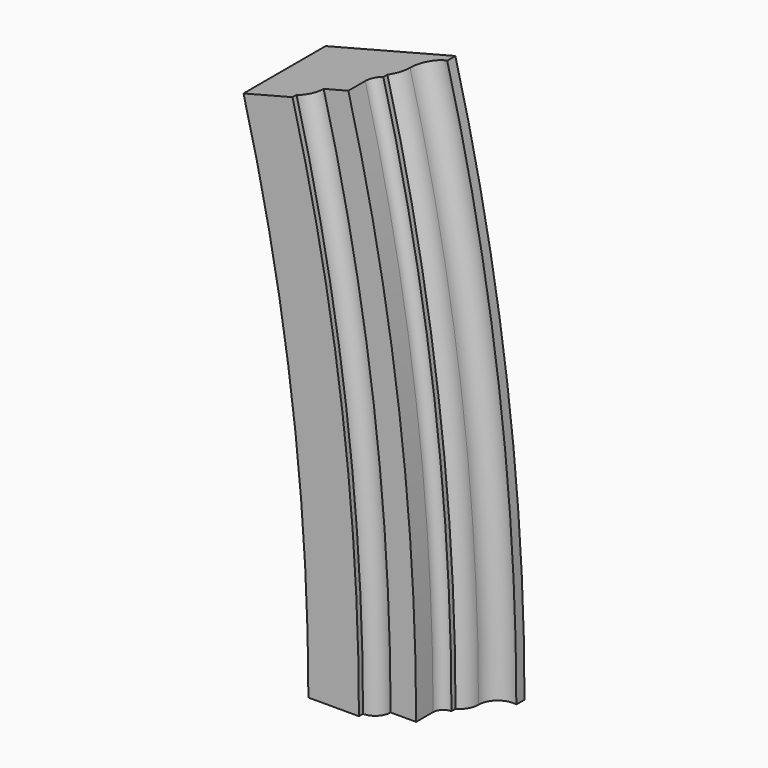
from build123d import *


with BuildPart() as f3:
    # F3: sweep along a path in F2
    with BuildLine(Plane.XZ.offset(46.4)) as f3_path:
        ThreePointArc((-101.248391782, 0), (-133.1296067133, 504.0171699309), (-228.2650455746, 1000))
    # F0 (on Top) → F3 (sweep)
    with BuildSketch(Plane.XY):
        with BuildLine():
            Line((161.251608218, 154.3882413845), (-101.248391782, 154.3882413845))
            Line((-101.248391782, 154.3882413845), (-101.248391782, -46.4))
            Line((-101.248391782, -46.4), (-2.2835230583, -46.4))
            Line((-2.2835230583, -46.4), (-2.2835230583, -36.4))
            ThreePointArc((-2.2835230583, -36.4), (18.9296803773, -27.6132034356), (27.7164769417, -6.4))
            Line((27.7164769417, -6.4), (77.7164769417, -6.4))
            Line((77.7164769417, -6.4), (77.7164769417, 35))
            ThreePointArc((77.7164769417, 35), (83.574341318, 49.1421356237), (97.7164769417, 55))
            Line((97.7164769417, 55), (97.7164769417, 65))
            ThreePointArc((97.7164769417, 65), (111.5595193417, 78.7383139253), (116.631133907, 97.5704624512))
            ThreePointArc((116.631133907, 97.5704624512), (130.2645022496, 126.4950867933), (161.251608218, 134.3882413845))
            Line((161.251608218, 134.3882413845), (161.251608218, 154.3882413845))
        make_face()
    sweep(path=f3_path.line)


solid = f3.part
